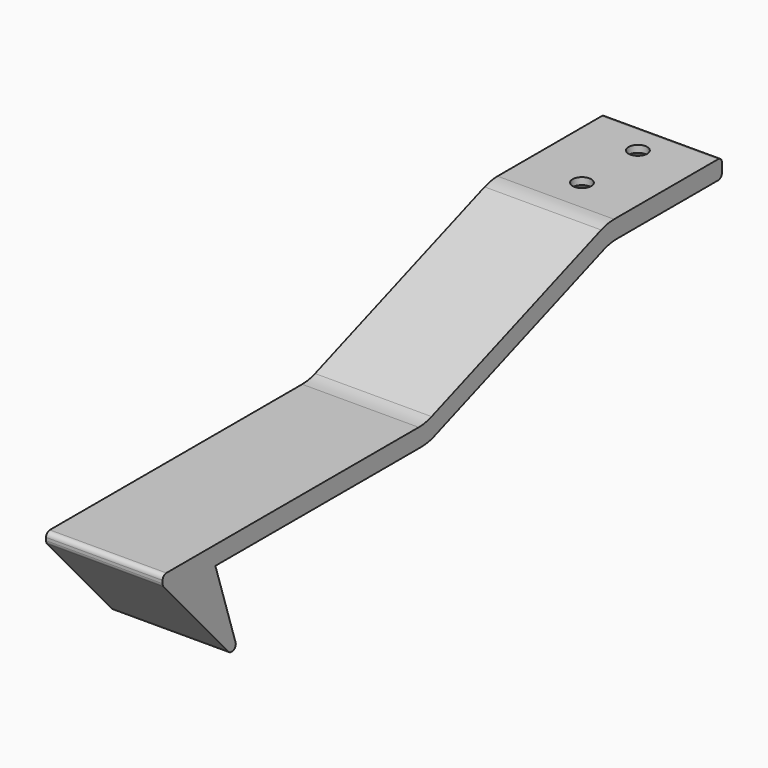
from build123d import *

# Parameters (mm, degrees)
PAD_DEPTH        = 25
HOLE_D           = 4
HOLE_DEPTH       = 25
HOLE_CSINK_D     = 9
HOLE_CSINK_ANGLE = 90
FILLET_R         = 1
FILLET001_R      = 10
FILLET002_R      = 1


with BuildPart() as part:
    # Sketch001 → Pad (new body)
    with BuildSketch(Plane.YZ):
        Polygon((6, -20), (6, -18), (76.470527, -18), (125.286025, 0), (156, 0), (156, -4), (126, -4), (77.184502, -22), (20.151445, -22), (26, -40), (24, -40), align=None)
    extrude(amount=PAD_DEPTH)

    # Hole
    with Locations(Plane.YX.offset(4)):
        with Locations((134.08619, 12.5), (149.08619, 12.5)):
            CounterSinkHole(HOLE_D / 2, HOLE_CSINK_D / 2, depth=HOLE_DEPTH, counter_sink_angle=HOLE_CSINK_ANGLE)

    # Fillet
    fillet_edges = [part.edges().sort_by_distance(p)[0] for p in [
        (12.5, 6, -18),
        (12.5, 6, -20),
        (12.5, 24, -40),
        (12.5, 26, -40),
    ]]
    fillet(fillet_edges, radius=FILLET_R)

    # Fillet001
    fillet001_edges = [part.edges().sort_by_distance(p)[0] for p in [
        (12.5, 76.470527, -18),
        (12.5, 125.286025, 0),
        (12.5, 77.184502, -22),
        (12.5, 126, -4),
    ]]
    fillet(fillet001_edges, radius=FILLET001_R)

    # Fillet002
    fillet002_edges = [part.edges().sort_by_distance(p)[0] for p in [
        (12.5, 156, -4),
        (12.5, 156, 0),
    ]]
    fillet(fillet002_edges, radius=FILLET002_R)


solid = part.part
